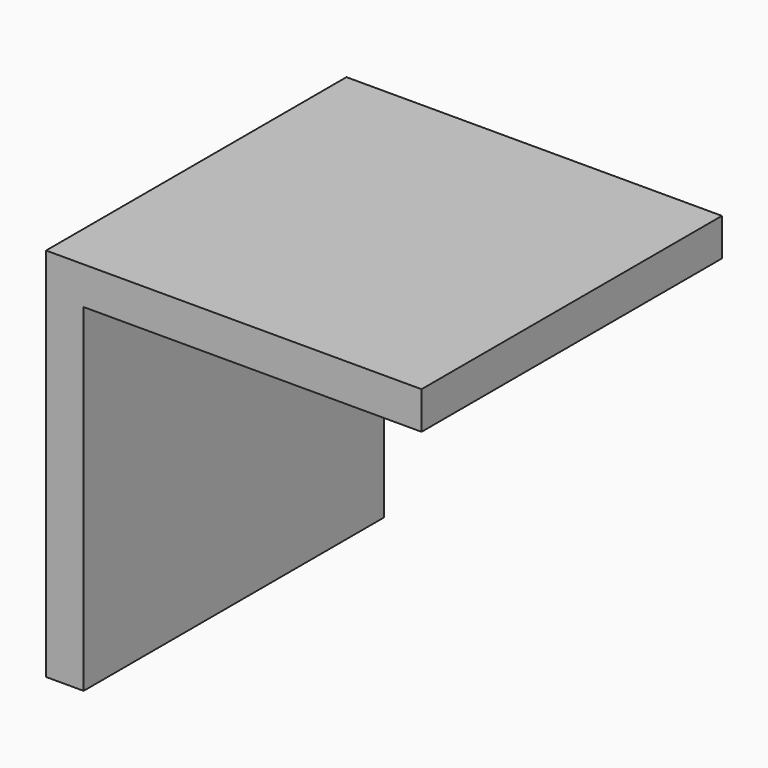
from build123d import *

# Parameters (mm, degrees)
BOX007_W     = 50
BOX007_H     = 58
BOX007_DEPTH = 50
BOX006_W     = 50
BOX006_H     = 50
BOX006_DEPTH = 50


with BuildPart() as cube002:
    # Box007 → Box007 (new body)
    with BuildSketch(Plane(origin=(5, -3, -5), x_dir=(1, 0, 0), z_dir=(0, 0, 1))):
        with Locations((25, 29)):
            Rectangle(BOX007_W, BOX007_H)
    extrude(amount=BOX007_DEPTH)


with BuildPart() as cut002006:
    # Box006 → Box006 (new body)
    with BuildSketch(Plane.XY):
        with Locations((25, 25)):
            Rectangle(BOX006_W, BOX006_H)
    extrude(amount=BOX006_DEPTH)

    # Cut002006: cut Cube002
    add(cube002.part, mode=Mode.SUBTRACT)


with BuildPart() as cut002006_1:
    # Cut002006 placement: moved
    add(cut002006.part.moved(Location((66, 35, 18.5))))


solid = cut002006_1.part
